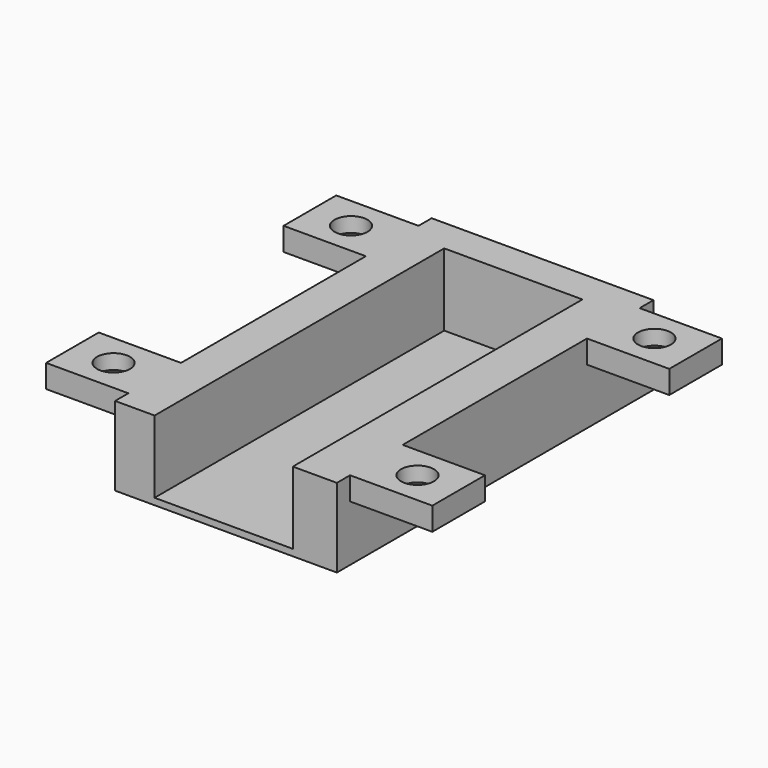
from build123d import *

# Parameters (mm, degrees)
F1_DEPTH        = 22
F0_W            = 42
F0_H            = 110
F2_DEPTH        = 2
F3_W            = 20
F3_H            = 7
F4_DEPTH        = 25
F6_W            = 20
F6_H            = 7
F7_DEPTH        = 25
F9_D            = 10
F9_CSINK_D      = 15
F9_CSINK_ANGLE  = 90
F11_D           = 10
F11_CSINK_D     = 15
F11_CSINK_ANGLE = 90
F13_D           = 10
F13_CSINK_D     = 15
F13_CSINK_ANGLE = 90
F15_D           = 10
F15_CSINK_D     = 15
F15_CSINK_ANGLE = 90


with BuildPart() as f1:
    # F0 (on Top) → F1 (new body)
    with BuildSketch(Plane.XY):
        Polygon((-12.002976, 0), (0, 0), (0, 110), (42, 110), (42, 0), (55.389886, 0), (55.389886, 120.241073), (-12.002976, 120.241073), align=None)
    extrude(amount=F1_DEPTH)

    # F0 (on Top) → F2 (join)
    with BuildSketch(Plane.XY):
        with Locations((21, 55)):
            Rectangle(F0_W, F0_H)
        Polygon((-12.002976, 0), (0, 0), (0, 110), (42, 110), (42, 0), (55.389886, 0), (55.389886, 120.241073), (-12.002976, 120.241073), align=None)
    extrude(amount=-F2_DEPTH)

    # F3 (on face) → F4 (join)
    with BuildSketch(Plane.YZ.offset(55.389886)):
        with Locations((15, 18.5)):
            Rectangle(F3_W, F3_H)
        with Locations((105, 18.5)):
            Rectangle(F3_W, F3_H)
    extrude(amount=F4_DEPTH)

    # F6 (on face) → F7 (join)
    with BuildSketch(Plane(origin=(-12.002976, 0, 0), x_dir=(0, -1, 0), z_dir=(-1, 0, 0))):
        with Locations((-105.241073, 18.5)):
            Rectangle(F6_W, F6_H)
        with Locations((-15.041073, 18.5)):
            Rectangle(F6_W, F6_H)
    extrude(amount=F7_DEPTH)

    # F9 (through all)
    with Locations(Plane(origin=(0, 0, 15), x_dir=(1, 0, 0), z_dir=(0, 0, -1))):
        with Locations((67.889886, -105)):
            CounterSinkHole(F9_D / 2, F9_CSINK_D / 2, counter_sink_angle=F9_CSINK_ANGLE)

    # F11 (through all)
    with Locations(Plane(origin=(0, 0, 15), x_dir=(1, 0, 0), z_dir=(0, 0, -1))):
        with Locations((67.889886, -15)):
            CounterSinkHole(F11_D / 2, F11_CSINK_D / 2, counter_sink_angle=F11_CSINK_ANGLE)

    # F13 (through all)
    with Locations(Plane(origin=(0, 0, 15), x_dir=(1, 0, 0), z_dir=(0, 0, -1))):
        with Locations((-24.502976, -15.041073)):
            CounterSinkHole(F13_D / 2, F13_CSINK_D / 2, counter_sink_angle=F13_CSINK_ANGLE)

    # F15 (through all)
    with Locations(Plane(origin=(0, 0, 15), x_dir=(1, 0, 0), z_dir=(0, 0, -1))):
        with Locations((-24.502976, -105.241073)):
            CounterSinkHole(F15_D / 2, F15_CSINK_D / 2, counter_sink_angle=F15_CSINK_ANGLE)


solid = f1.part
